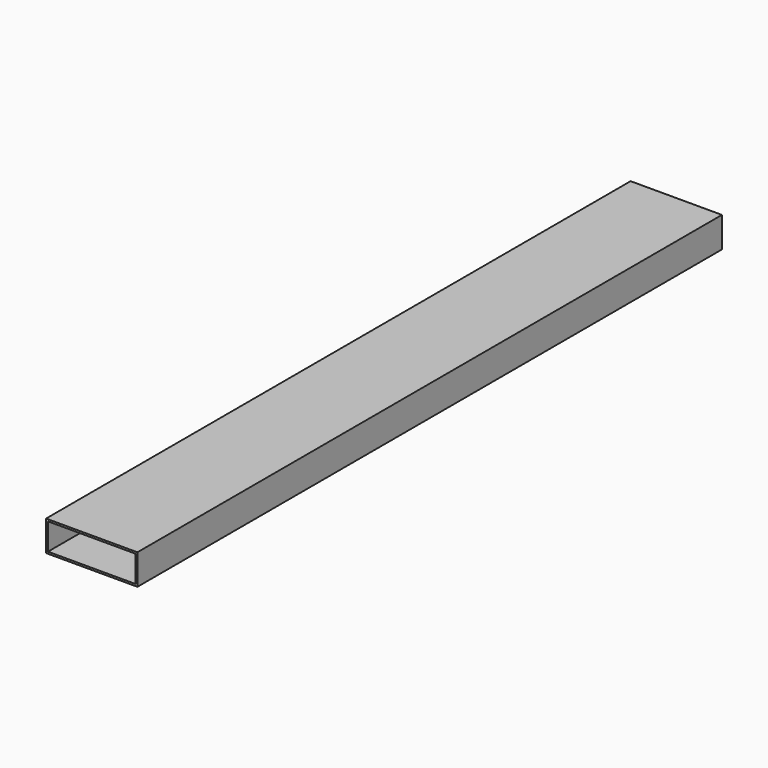
from build123d import *

# Parameters (mm, degrees)
F0_W     = 152.4
F0_H     = 50.8
F0_W_2   = 146.05
F0_H_2   = 44.45
F1_DEPTH = 1219.2


with BuildPart() as f1:
    # F0 (on Front) → F1 (new body)
    with BuildSketch(Plane.XZ):
        with Locations((76.2, -25.4)):
            Rectangle(F0_W, F0_H)
        with Locations((76.2, -25.4)):
            Rectangle(F0_W_2, F0_H_2, mode=Mode.SUBTRACT)
    extrude(amount=-F1_DEPTH)


solid = f1.part
